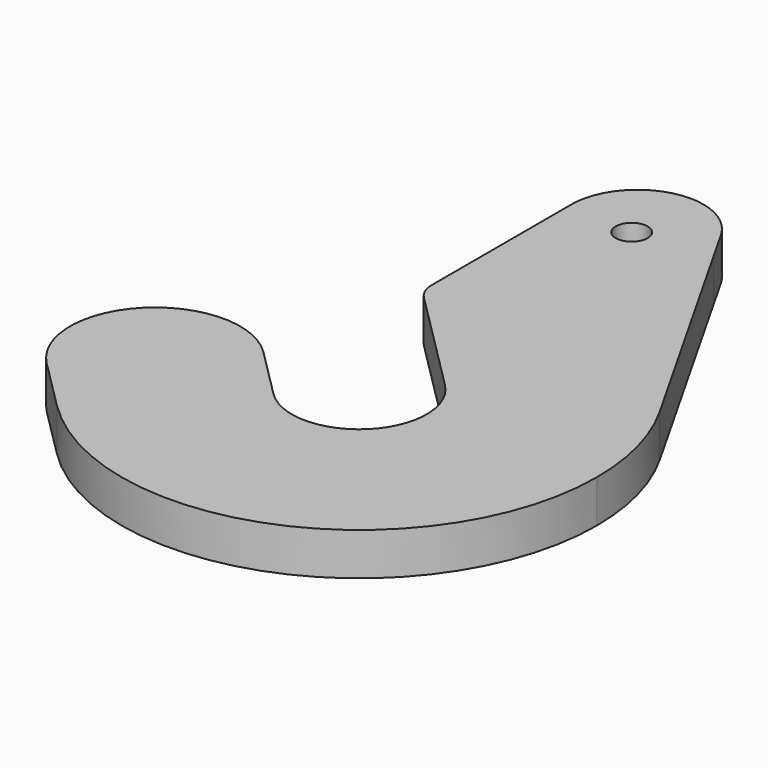
from build123d import *

# Parameters (mm, degrees)
F0_R     = 14.2875
F1_DEPTH = 38.1


with BuildPart() as f1:
    # F0 (on Top) → F1 (new body)
    with BuildSketch(Plane.XY):
        with BuildLine():
            ThreePointArc((-59.546527, 76.279726), (-59.546527, -9.032707), (-144.85896, -9.032707))
            Line((-144.85896, -9.032707), (-189.76024, 35.868573))
            ThreePointArc((-189.76024, 35.868573), (-297.523314, 35.868573), (-297.523314, -71.8945))
            Line((-297.523314, -71.8945), (-252.622033, -116.795781))
            ThreePointArc((-252.622033, -116.795781), (-20.79641, -162.908764), (110.522257, 33.623509))
            ThreePointArc((110.522257, 33.623509), (103.475643, 87.922009), (82.802646, 138.623183))
            Line((82.802646, 138.623183), (-34.367046, 345.071677))
            Line((-34.367046, 345.071677), (-50.916067, 374.230416))
            ThreePointArc((-50.916067, 374.230416), (-117.371509, 402.189211), (-161.367046, 345.071677))
            Line((-161.367046, 345.071677), (-161.367046, 277.521269))
            Line((-161.367046, 277.521269), (-161.367046, 188.621269))
            ThreePointArc((-161.367046, 188.621269), (-159.433586, 178.90111), (-153.927558, 170.660757))
            Line((-153.927558, 170.660757), (-104.447807, 121.181006))
            Line((-104.447807, 121.181006), (-59.546527, 76.279726))
        make_face()
        with Locations((-102.202743, 338.423509)):
            Circle(F0_R, mode=Mode.SUBTRACT)
    extrude(amount=F1_DEPTH)


solid = f1.part
